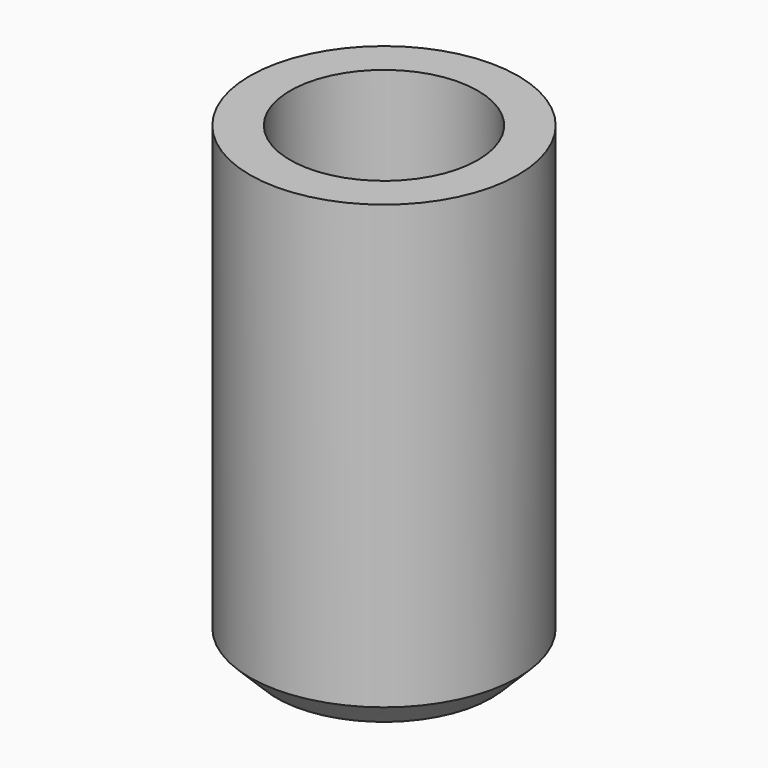
from build123d import *

# Parameters (mm, degrees)
F0_R     = 10
F1_DEPTH = 35
F2_R     = 7
F4_DEPTH = 25
F3_R     = 3.25
F5_DEPTH = 30
F6_SIZE  = 2


with BuildPart() as f1:
    # F0 (on Top) → F1 (new body)
    with BuildSketch(Plane.XY):
        Circle(F0_R)
    extrude(amount=F1_DEPTH)

    # F2 (on face) → F4 (cut)
    with BuildSketch(Plane.XY.offset(35)):
        Circle(F2_R)
    extrude(amount=-F4_DEPTH, mode=Mode.SUBTRACT)

    # F3 (on face) → F5 (cut)
    with BuildSketch(Plane.XY.offset(35)):
        Circle(F3_R)
    extrude(amount=-F5_DEPTH, mode=Mode.SUBTRACT)

    # F6
    f6_edges = [f1.edges().sort_by_distance(p)[0] for p in [
        (-10, 0, 0),
    ]]
    chamfer(f6_edges, length=F6_SIZE)


solid = f1.part
